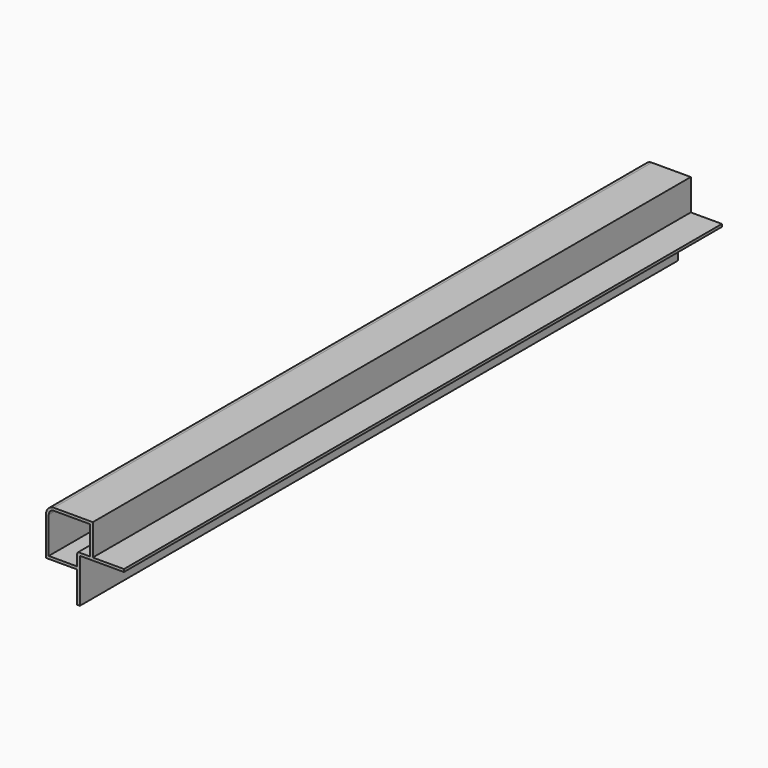
from build123d import *

# Parameters (mm, degrees)
F1_DEPTH = 480


with BuildPart() as f1:
    # F0 (on Front) → F1 (new body)
    with BuildSketch(Plane.XZ):
        with BuildLine():
            Line((10.950894, 19.049106), (-14.049106, 19.049106))
            ThreePointArc((-14.049106, 19.049106), (-17.58464, 17.58464), (-19.049106, 14.049106))
            Line((-19.049106, 14.049106), (-19.049106, -10.950894))
            Line((-19.049106, -10.950894), (0.950894, -10.950894))
            Line((0.950894, -10.950894), (0.950894, -30.950894))
            Line((0.950894, -30.950894), (2.650894, -30.950894))
            Line((2.650894, -30.950894), (2.650894, -2.650894))
            Line((2.650894, -2.650894), (30.950894, -2.650894))
            Line((30.950894, -2.650894), (30.950894, -0.950894))
            Line((30.950894, -0.950894), (10.950894, -0.950894))
            Line((10.950894, -0.950894), (10.950894, 19.049106))
        make_face()
        with BuildLine():
            ThreePointArc((1.950894, -0.950894), (1.243787, -1.243787), (0.950894, -1.950894))
            Line((0.950894, -1.950894), (0.950894, -9.250894))
            Line((0.950894, -9.250894), (-17.349106, -9.250894))
            Line((-17.349106, -9.250894), (-17.349106, 14.049106))
            ThreePointArc((-17.349106, 14.049106), (-16.382558, 16.382558), (-14.049106, 17.349106))
            Line((-14.049106, 17.349106), (9.250894, 17.349106))
            Line((9.250894, 17.349106), (9.250894, -0.950894))
            Line((9.250894, -0.950894), (1.950894, -0.950894))
        make_face(mode=Mode.SUBTRACT)
    extrude(amount=-F1_DEPTH)


solid = f1.part
